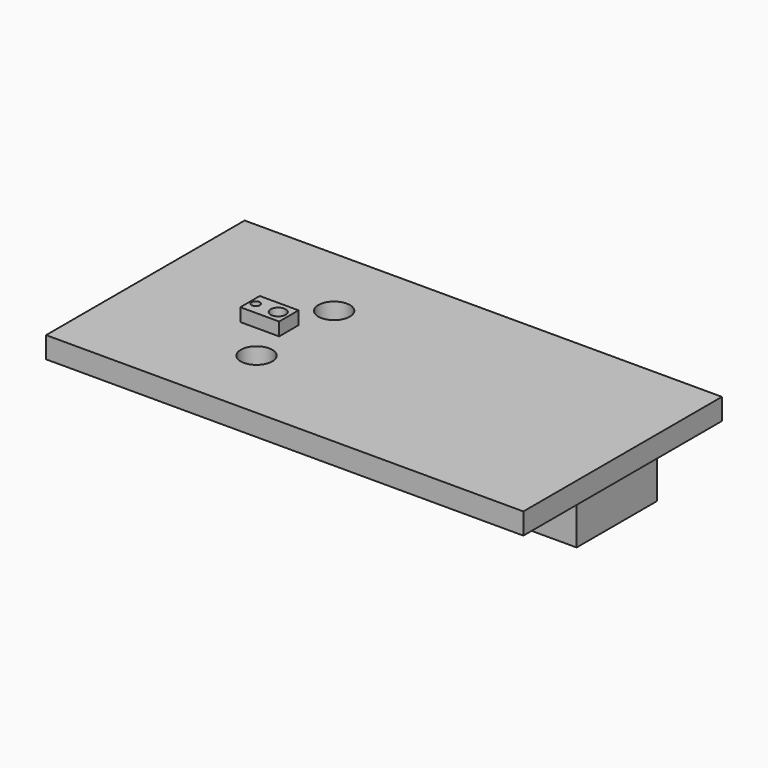
from build123d import *

# Parameters (mm, degrees)
F0_W      = 50
F0_H      = 26
F1_DEPTH  = 0.9652
F3_W      = 4.064
F3_H      = 2.54
F3_R      = 0.432705
F3_R_2    = 0.784328
F4_DEPTH  = 2.3368
F4_FACE_W = 50
F4_FACE_H = 26
F5_DEPTH  = 1.27
F7_R      = 1.651
F8_DEPTH  = 25.4
F6_W      = 4.2926
F6_H      = 7.2898
F9_DEPTH  = 3.0988
F11_W     = 5
F11_H     = 10.5
F12_DEPTH = 4.445


with BuildPart() as f1:
    # F0 (on Top) → F1 (new body)
    with BuildSketch(Plane.XY):
        Rectangle(F0_W, F0_H)
    extrude(amount=F1_DEPTH)


with BuildPart() as f1_1:
    # F2: moved
    add(f1.part.moved(Location((12, 0, 0))))

    # F3 (on face) → F4 (join)
    with BuildSketch(Plane(origin=(0, 0, 0), x_dir=(1, 0, 0), z_dir=(0, 0, -1))):
        Rectangle(F3_W, F3_H)
        with Locations((-1.436029, 0)):
            Circle(F3_R, mode=Mode.SUBTRACT)
        with Locations((0.916756, 0)):
            Circle(F3_R_2, mode=Mode.SUBTRACT)
    extrude(amount=-F4_DEPTH)

    # F4_face (on face) → F5 (join)
    with BuildSketch(Plane(origin=(12, 0, 0), x_dir=(1, 0, 0), z_dir=(0, 0, -1))):
        Rectangle(F4_FACE_W, F4_FACE_H)
        Rectangle(F4_FACE_W, F4_FACE_H)
    extrude(amount=F5_DEPTH)

    # F7 (on face) → F8 (cut)
    with BuildSketch(Plane.XY.offset(0.9652)):
        with Locations((2.7099, 5.08)):
            Circle(F7_R)
        with Locations((2.7099, -5.08)):
            Circle(F7_R)
    extrude(amount=-F8_DEPTH, mode=Mode.SUBTRACT)


with BuildPart() as f9:
    # F6 (on face) → F9 (new body)
    with BuildSketch(Plane(origin=(0, 0, -1.27), x_dir=(1, 0, 0), z_dir=(0, 0, -1))):
        Rectangle(F6_W, F6_H)
    extrude(amount=F9_DEPTH)


with BuildPart() as f9_1:
    # F10: moved
    add(f9.part.moved(Location((10.35, 0, 0))))


with BuildPart() as f12:
    # F11 (on face) → F12 (new body)
    with BuildSketch(Plane(origin=(0, 0, -1.27), x_dir=(1, 0, 0), z_dir=(0, 0, -1))):
        with Locations((21.152385, 0)):
            Rectangle(F11_W, F11_H)
    extrude(amount=F12_DEPTH)


with BuildPart() as f12_1:
    # F13: moved
    add(f12.part.moved(Location((8.636, 0, 0))))


with BuildPart() as f12_2:
    # F14: moved
    add(f12_1.part.moved(Location((4.0894, 0, 0))))


solid = Compound([f1_1.part, f9_1.part, f12_2.part])
